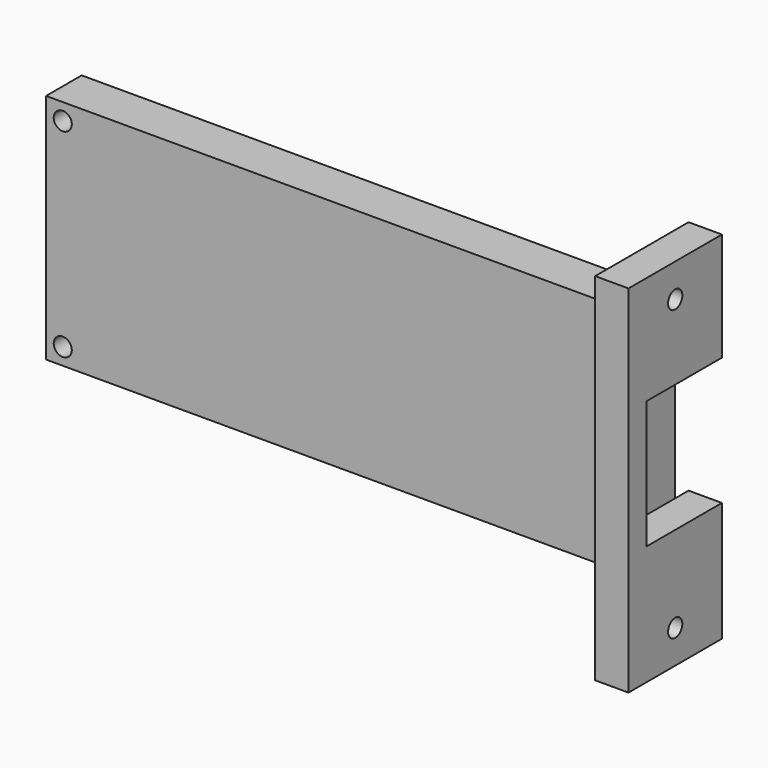
from build123d import *

# Parameters (mm, degrees)
BOX011_W                   = 15
BOX011_H                   = 6
BOX011_DEPTH               = 4
EXTRUDE003_DEPTH           = 5
EXTRUDE003_ROLL_ANGLE      = -90
EXTRUDE003_PLACEMENT_ANGLE = -90
CYLINDER010_R              = 1.6
CYLINDER010_DEPTH          = 10
CYLINDER009_R              = 1.6
CYLINDER009_DEPTH          = 10
SKETCH_W                   = 106.75
SKETCH_H                   = 41.75
SKETCH_R                   = 1.625
EXTRUDE_DEPTH              = 8
EXTRUDE_PLACEMENT_ANGLE    = 270
BOX009_W                   = 6
BOX009_H                   = 17
BOX009_DEPTH               = 23
BOX005_W                   = 6
BOX005_H                   = 21
BOX005_DEPTH               = 64
TUBE003_R                  = 4
TUBE003_R_2                = 1.5
TUBE003_DEPTH              = 12


with BuildPart() as cube007:
    # Box011 → Box011 (new body)
    with BuildSketch(Plane(origin=(66.5, -0.9, 22.75), x_dir=(1, 0, 0), z_dir=(0, 0, 1))):
        with Locations((7.5, 3)):
            Rectangle(BOX011_W, BOX011_H)
    extrude(amount=BOX011_DEPTH)


with BuildPart() as extrude003:
    # Sketch004 → Extrude003 (new body)
    with BuildSketch(Plane.YZ):
        Polygon((10.25, 66.5), (10.25, 43.25), (12.9, 43.25), (12.9, 20.25), (16.15, 20.25), (16.15, 15.25), (24.15, 15.25), (24.15, 20.25), (27.4, 20.25), (27.4, 43.25), (30, 43.25), (30, 66.5), align=None)
    extrude(amount=EXTRUDE003_DEPTH)


with BuildPart() as extrude003_1:
    # Extrude003 roll: moved
    add(extrude003.part.rotate(Axis((0, 0, 0), (1, 0, 0)), EXTRUDE003_ROLL_ANGLE))


with BuildPart() as extrude003_2:
    # Extrude003 placement: moved
    add(extrude003_1.part.moved(Location((0, 4, 40.25))).rotate(Axis((0, 4, 40.25), (0, 0, 1)), EXTRUDE003_PLACEMENT_ANGLE))


with BuildPart() as cylinder010:
    # Cylinder010 → Cylinder010 (new body)
    with BuildSketch(Plane(origin=(114, 6.5, 46), x_dir=(0, 0, 1), z_dir=(-1, 0, 0))):
        Circle(CYLINDER010_R)
    extrude(amount=CYLINDER010_DEPTH)


with BuildPart() as m3cyl:
    # Cylinder009 → Cylinder009 (new body)
    with BuildSketch(Plane(origin=(114, 6.5, -6), x_dir=(0, 0, 1), z_dir=(-1, 0, 0))):
        Circle(CYLINDER009_R)
    extrude(amount=CYLINDER009_DEPTH)

    # Fusion010: union Cylinder010
    add(cylinder010.part)


with BuildPart() as m3cyl_1:
    # Fusion010 placement: moved
    add(m3cyl.part.moved(Location((0, -10, 0))))


with BuildPart() as bottom:
    # Sketch → Extrude (new body)
    with BuildSketch(Plane.YZ):
        with Locations((53.375, 20.875)):
            Rectangle(SKETCH_W, SKETCH_H)
        with Locations((3, 3)):
            Circle(SKETCH_R, mode=Mode.SUBTRACT)
        with Locations((3, 38.75)):
            Circle(SKETCH_R, mode=Mode.SUBTRACT)
        with Locations((103.75, 38.75)):
            Circle(SKETCH_R, mode=Mode.SUBTRACT)
        with Locations((103.75, 3)):
            Circle(SKETCH_R, mode=Mode.SUBTRACT)
    extrude(amount=EXTRUDE_DEPTH)


with BuildPart() as bottom_1:
    # Extrude placement: moved
    add(bottom.part.moved(Location((0, 4, 0))).rotate(Axis((0, 4, 0), (0, 0, 1)), EXTRUDE_PLACEMENT_ANGLE))


with BuildPart() as basemount001:
    # Box009 → Box009 (new body)
    with BuildSketch(Plane(origin=(106.75, 0, 9.5), x_dir=(1, 0, 0), z_dir=(0, 0, 1))):
        with Locations((3, 8.5)):
            Rectangle(BOX009_W, BOX009_H)
    extrude(amount=BOX009_DEPTH)


with BuildPart() as obj1:
    # Box005 → Box005 (new body)
    with BuildSketch(Plane(origin=(106.75, -4, -12), x_dir=(1, 0, 0), z_dir=(0, 0, 1))):
        with Locations((3, 10.5)):
            Rectangle(BOX005_W, BOX005_H)
    extrude(amount=BOX005_DEPTH)

    # Cut001: cut baseMOunt001
    add(basemount001.part, mode=Mode.SUBTRACT)


with BuildPart() as obj1_1:
    # Cut001 placement: moved
    add(obj1.part.moved(Location((0, -10, 0))))

    # Fusion009: union Bottom
    add(bottom_1.part)

    # Cut002: cut m3Cyl
    add(m3cyl_1.part, mode=Mode.SUBTRACT)

    # Cut003: cut Extrude003
    add(extrude003_2.part, mode=Mode.SUBTRACT)

    # Cut004: cut Cube007
    add(cube007.part, mode=Mode.SUBTRACT)


with BuildPart() as bottom001:
    # Tube003 → Tube003 (new body)
    with BuildSketch(Plane(origin=(71, 12, 18.5), x_dir=(0, 0, -1), z_dir=(0, -1, 0))):
        Circle(TUBE003_R)
        Circle(TUBE003_R_2, mode=Mode.SUBTRACT)
    extrude(amount=TUBE003_DEPTH)

    # Fusion011: union obj1
    add(obj1_1.part)


solid = bottom001.part
